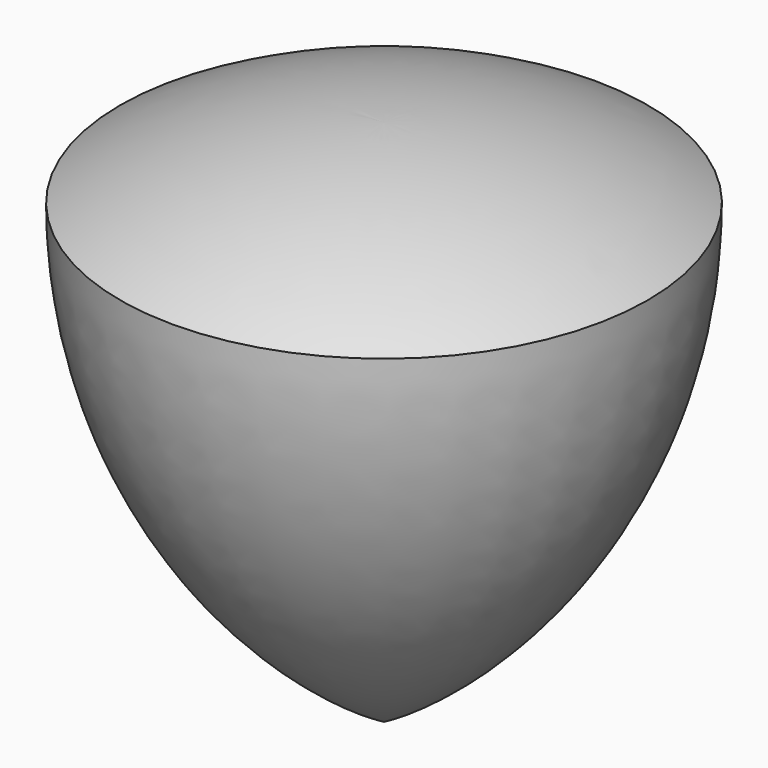
from build123d import *


with BuildPart() as f1:
    # F0 (on Front) → F1 (revolve)
    with BuildSketch(Plane.XZ):
        Polygon((0, 14.433757), (-25, 14.433757), (0, -28.867513), align=None)
        with BuildLine():
            Line((0, -28.867513), (-25, 14.433757))
            ThreePointArc((-25, 14.433757), (-18.30127, -10.566243), (0, -28.867513))
        make_face()
        with BuildLine():
            ThreePointArc((0, 21.132487), (-12.940952, 19.428778), (-25, 14.433757))
            Line((-25, 14.433757), (0, 14.433757))
            Line((0, 14.433757), (0, 21.132487))
        make_face()
    revolve(axis=Axis((0, 0, -3.867513), (0, 0, 1)))


solid = f1.part
